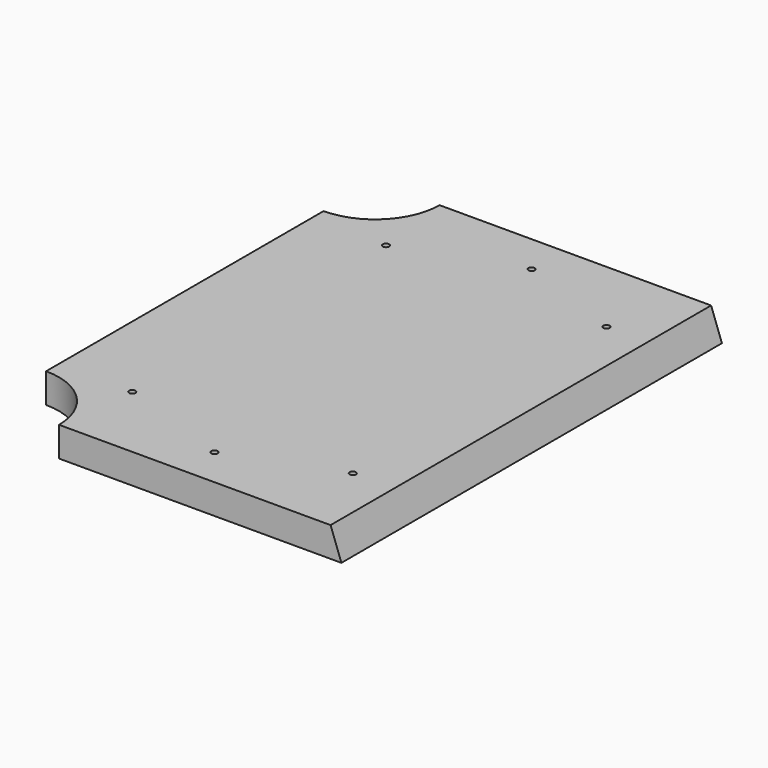
from build123d import *

# Parameters (mm, degrees)
F0_R     = 2.032
F1_DEPTH = 19.05
F3_DEPTH = 304.8


with BuildPart() as f1:
    # F0 (on Top) → F1 (new body)
    with BuildSketch(Plane.XY):
        with BuildLine():
            Line((111.125, 152.4), (-69.85, 152.4))
            ThreePointArc((-69.85, 152.4), (-81.939168, 123.214168), (-111.125, 111.125))
            Line((-111.125, 111.125), (-111.125, -111.125))
            ThreePointArc((-111.125, -111.125), (-81.939168, -123.214168), (-69.85, -152.4))
            Line((-69.85, -152.4), (111.125, -152.4))
            Line((111.125, -152.4), (111.125, 152.4))
        make_face()
        with Locations((-63.5, -101.6)):
            Circle(F0_R, mode=Mode.SUBTRACT)
        with Locations((9.525, -127)):
            Circle(F0_R, mode=Mode.SUBTRACT)
        with Locations((77.7875, -101.6)):
            Circle(F0_R, mode=Mode.SUBTRACT)
        with Locations((-63.5, 101.6)):
            Circle(F0_R, mode=Mode.SUBTRACT)
        with Locations((9.525, 127)):
            Circle(F0_R, mode=Mode.SUBTRACT)
        with Locations((77.7875, 101.6)):
            Circle(F0_R, mode=Mode.SUBTRACT)
    extrude(amount=F1_DEPTH)

    # F2 (on face) → F3 (cut, through all)
    with BuildSketch(Plane.XZ.offset(152.4)):
        Polygon((111.125, 0), (111.125, 19.05), (104.191367, 19.05), align=None)
    extrude(amount=-F3_DEPTH, mode=Mode.SUBTRACT)


solid = f1.part
